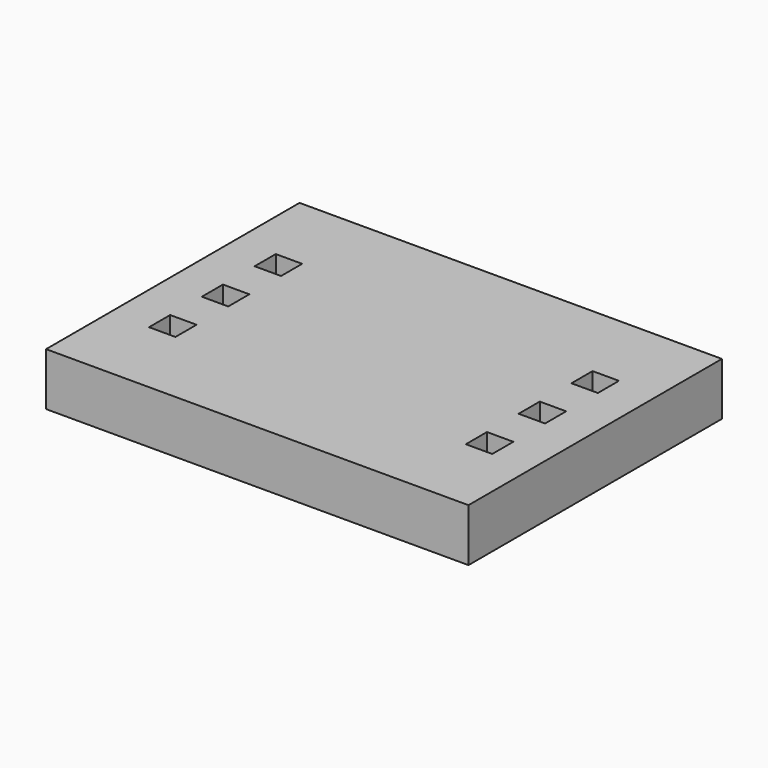
from build123d import *

# Parameters (mm, degrees)
F0_W     = 19.05
F0_H     = 76.2
F0_W_2   = 63.5
F1_DEPTH = 12.7


with BuildPart() as f1:
    # F0 (on Top) → F1 (new body)
    with BuildSketch(Plane.XY):
        with Locations((-31.324641, 8.143183)):
            Rectangle(F0_W, F0_H)
        Polygon((-31.324641, -4.556817), (-24.974641, -4.556817), (-24.974641, -7.731817), (-24.974641, -10.906817), (-31.324641, -10.906817), (-31.324641, -7.731817), align=None, mode=Mode.SUBTRACT)
        Polygon((-31.324641, 11.318183), (-24.974641, 11.318183), (-24.974641, 8.143183), (-24.974641, 4.968183), (-31.324641, 4.968183), (-31.324641, 8.143183), align=None, mode=Mode.SUBTRACT)
        Polygon((-31.324641, 27.193183), (-24.974641, 27.193183), (-24.974641, 24.018183), (-24.974641, 20.843183), (-31.324641, 20.843183), (-31.324641, 24.018183), align=None, mode=Mode.SUBTRACT)
        with Locations((9.950359, 8.143183)):
            Rectangle(F0_W_2, F0_H)
        Polygon((48.050359, 46.243183), (41.700359, 46.243183), (41.700359, -29.956817), (48.050359, -29.956817), (48.050359, -10.906817), (44.875359, -10.906817), (44.875359, -7.731817), (44.875359, -4.556817), (48.050359, -4.556817), (48.050359, 4.968183), (44.875359, 4.968183), (44.875359, 8.143183), (44.875359, 11.318183), (48.050359, 11.318183), (48.050359, 20.843183), (44.875359, 20.843183), (44.875359, 24.018183), (44.875359, 27.193183), (48.050359, 27.193183), align=None)
        Polygon((60.750359, 46.243183), (48.050359, 46.243183), (48.050359, 27.193183), (51.225359, 27.193183), (51.225359, 24.018183), (51.225359, 20.843183), (48.050359, 20.843183), (48.050359, 11.318183), (51.225359, 11.318183), (51.225359, 8.143183), (51.225359, 4.968183), (48.050359, 4.968183), (48.050359, -4.556817), (51.225359, -4.556817), (51.225359, -7.731817), (51.225359, -10.906817), (48.050359, -10.906817), (48.050359, -29.956817), (60.750359, -29.956817), align=None)
    extrude(amount=F1_DEPTH)


solid = f1.part
